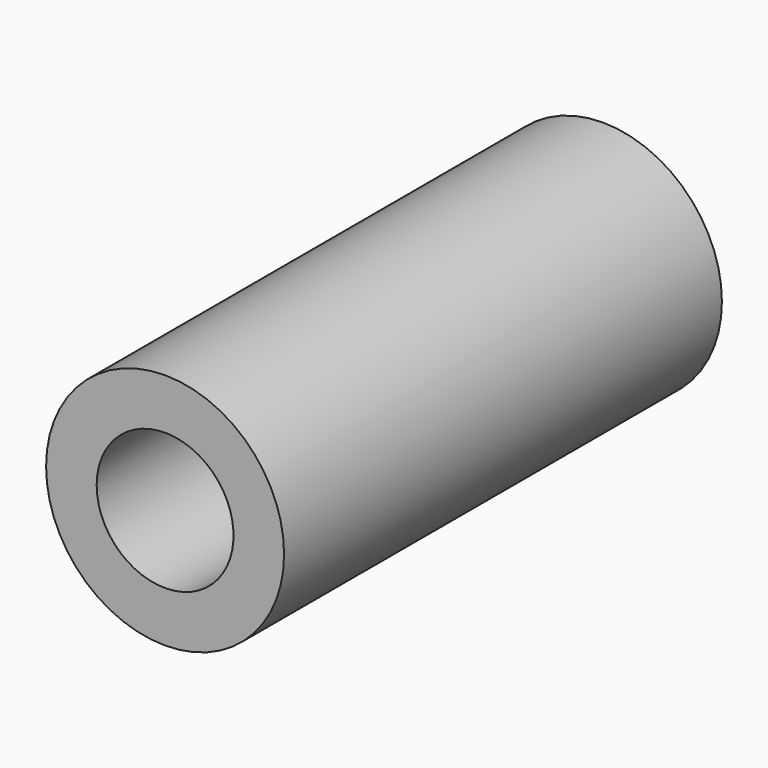
from build123d import *

# Parameters (mm, degrees)
F0_R     = 5.5226986732
F1_DEPTH = 25.4
F3_D     = 6.35
F3_DEPTH = 12.7
F3_TIP   = 1.9077324654


with BuildPart() as f1:
    # F0 (on Front) → F1 (new body)
    with BuildSketch(Plane.XZ):
        with Locations((32.513320446, 16.3148529828)):
            Circle(F0_R)
    extrude(amount=F1_DEPTH)

    # F3
    with Locations(Plane.XZ.offset(25.4)):
        with Locations((32.513320446, 16.3148529828)):
            Hole(F3_D / 2, depth=F3_DEPTH)
            with Locations((0, 0, -(F3_DEPTH + F3_TIP / 2))):  # 118° drill point
                Cone(0, F3_D / 2, F3_TIP, mode=Mode.SUBTRACT)


solid = f1.part
